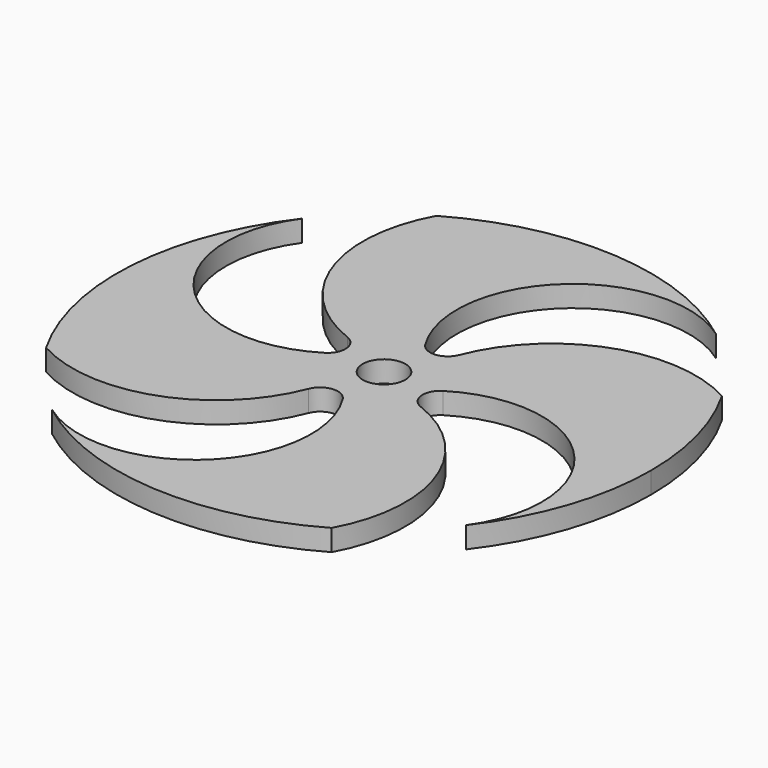
from build123d import *

# Parameters (mm, degrees)
F0_R     = 3
F1_DEPTH = 3


with BuildPart() as f1:
    # F0 (on Top) → F1 (new body)
    with BuildSketch(Plane.XY):
        with BuildLine():
            ThreePointArc((67.24837, -60.331655), (73.009251, -49.555831), (75, -37.5))
            ThreePointArc((75, -37.5), (73.734834, -27.841491), (70.024705, -18.834696))
            ThreePointArc((70.024705, -18.834696), (53.381141, -17.534216), (41.443412, -29.204267))
            ThreePointArc((41.443412, -29.204267), (39.349684, -30.787351), (36.995309, -29.626849))
            ThreePointArc((36.995309, -29.626849), (39.655951, -9.080062), (60.331655, -7.75163))
            ThreePointArc((60.331655, -7.75163), (40.003324, -0.083648), (18.834696, -4.975295))
            ThreePointArc((18.834696, -4.975295), (17.534216, -21.618859), (29.204267, -33.556588))
            ThreePointArc((29.204267, -33.556588), (30.787351, -35.650316), (29.626849, -38.004691))
            ThreePointArc((29.626849, -38.004691), (9.080062, -35.344049), (7.75163, -14.668345))
            ThreePointArc((7.75163, -14.668345), (0.083648, -34.996676), (4.975295, -56.165304))
            ThreePointArc((4.975295, -56.165304), (21.618859, -57.465784), (33.556588, -45.795733))
            ThreePointArc((33.556588, -45.795733), (35.650316, -44.212649), (38.004691, -45.373151))
            ThreePointArc((38.004691, -45.373151), (35.344049, -65.919938), (14.668345, -67.24837))
            ThreePointArc((14.668345, -67.24837), (34.996676, -74.916352), (56.165304, -70.024705))
            ThreePointArc((56.165304, -70.024705), (57.465784, -53.381141), (45.795733, -41.443412))
            ThreePointArc((45.795733, -41.443412), (44.212649, -39.349684), (45.373151, -36.995309))
            ThreePointArc((45.373151, -36.995309), (65.919938, -39.655951), (67.24837, -60.331655))
        make_face()
        with Locations((37.5, -37.5)):
            Circle(F0_R, mode=Mode.SUBTRACT)
    extrude(amount=F1_DEPTH)


solid = f1.part
